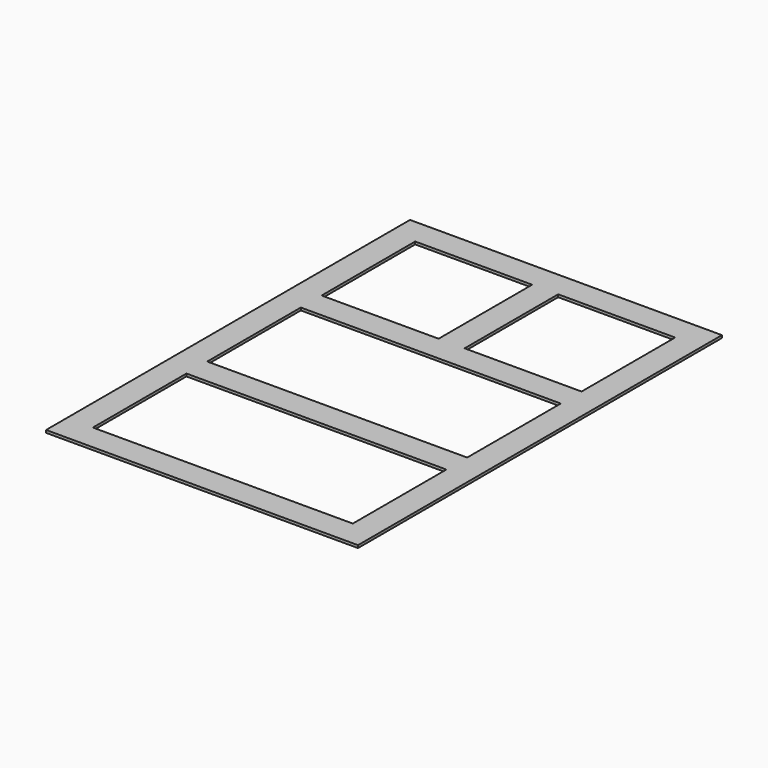
from build123d import *

# Parameters (mm, degrees)
F0_W     = 120
F0_H     = 175
F0_W_2   = 100
F0_H_2   = 45
F0_W_3   = 45
F1_DEPTH = 1


with BuildPart() as f1:
    # F0 (on Top) → F1 (new body)
    with BuildSketch(Plane.XY):
        with Locations((-0.791213, 12.861143)):
            Rectangle(F0_W, F0_H)
        with Locations((-0.791213, -42.138857)):
            Rectangle(F0_W_2, F0_H_2, mode=Mode.SUBTRACT)
        with Locations((-0.791213, 12.861143)):
            Rectangle(F0_W_2, F0_H_2, mode=Mode.SUBTRACT)
        with Locations((-28.291213, 67.861143)):
            Rectangle(F0_W_3, F0_H_2, mode=Mode.SUBTRACT)
        with Locations((26.708787, 67.861143)):
            Rectangle(F0_W_3, F0_H_2, mode=Mode.SUBTRACT)
    extrude(amount=-F1_DEPTH)


solid = f1.part
